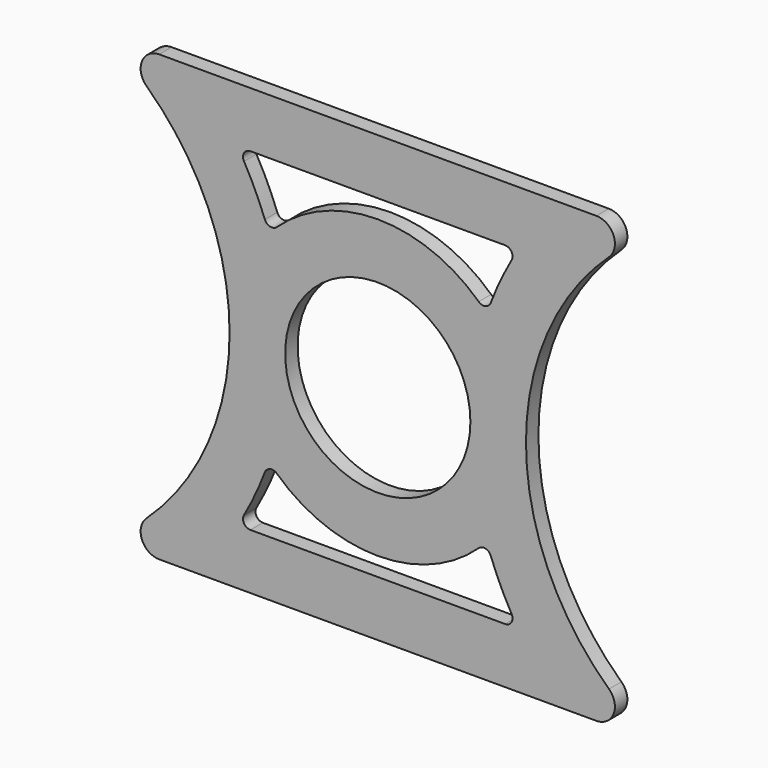
from build123d import *

# Parameters (mm, degrees)
F0_R     = 15.875
F1_DEPTH = 2.667


with BuildPart() as f1:
    # F0 (on Front) → F1 (new body)
    with BuildSketch(Plane.XZ):
        with BuildLine():
            Line((-32.378774, 38.1), (-107.321226, 38.1))
            ThreePointArc((-107.321226, 38.1), (-110.27699, 36.084346), (-109.479811, 32.596667))
            ThreePointArc((-109.479811, 32.596667), (-95.25, 0), (-109.479811, -32.596667))
            ThreePointArc((-109.479811, -32.596667), (-110.27699, -36.084346), (-107.321226, -38.1))
            Line((-107.321226, -38.1), (-32.378774, -38.1))
            ThreePointArc((-32.378774, -38.1), (-29.42301, -36.084346), (-30.220189, -32.596667))
            ThreePointArc((-30.220189, -32.596667), (-44.45, 0), (-30.220189, 32.596667))
            ThreePointArc((-30.220189, 32.596667), (-29.42301, 36.084346), (-32.378774, 38.1))
        make_face()
        with BuildLine():
            ThreePointArc((-87.154437, -18.593452), (-69.85, -25.4), (-52.545563, -18.593452))
            ThreePointArc((-52.545563, -18.593452), (-51.39075, -18.286582), (-50.492287, -19.074317))
            ThreePointArc((-50.492287, -19.074317), (-48.854993, -22.945377), (-46.921449, -26.677299))
            ThreePointArc((-46.921449, -26.677299), (-46.92774, -27.943639), (-48.025483, -28.575))
            Line((-48.025483, -28.575), (-91.674517, -28.575))
            ThreePointArc((-91.674517, -28.575), (-92.77226, -27.943639), (-92.778551, -26.677299))
            ThreePointArc((-92.778551, -26.677299), (-90.845007, -22.945377), (-89.207713, -19.074317))
            ThreePointArc((-89.207713, -19.074317), (-88.30925, -18.286582), (-87.154437, -18.593452))
        make_face(mode=Mode.SUBTRACT)
        with Locations((-69.85, 0)):
            Circle(F0_R, mode=Mode.SUBTRACT)
        with BuildLine():
            ThreePointArc((-92.778551, 26.677299), (-92.77226, 27.943639), (-91.674517, 28.575))
            Line((-91.674517, 28.575), (-48.025483, 28.575))
            ThreePointArc((-48.025483, 28.575), (-46.92774, 27.943639), (-46.921449, 26.677299))
            ThreePointArc((-46.921449, 26.677299), (-48.854993, 22.945377), (-50.492287, 19.074317))
            ThreePointArc((-50.492287, 19.074317), (-51.39075, 18.286582), (-52.545563, 18.593452))
            ThreePointArc((-52.545563, 18.593452), (-69.85, 25.4), (-87.154437, 18.593452))
            ThreePointArc((-87.154437, 18.593452), (-88.30925, 18.286582), (-89.207713, 19.074317))
            ThreePointArc((-89.207713, 19.074317), (-90.845007, 22.945377), (-92.778551, 26.677299))
        make_face(mode=Mode.SUBTRACT)
    extrude(amount=F1_DEPTH)


solid = f1.part
